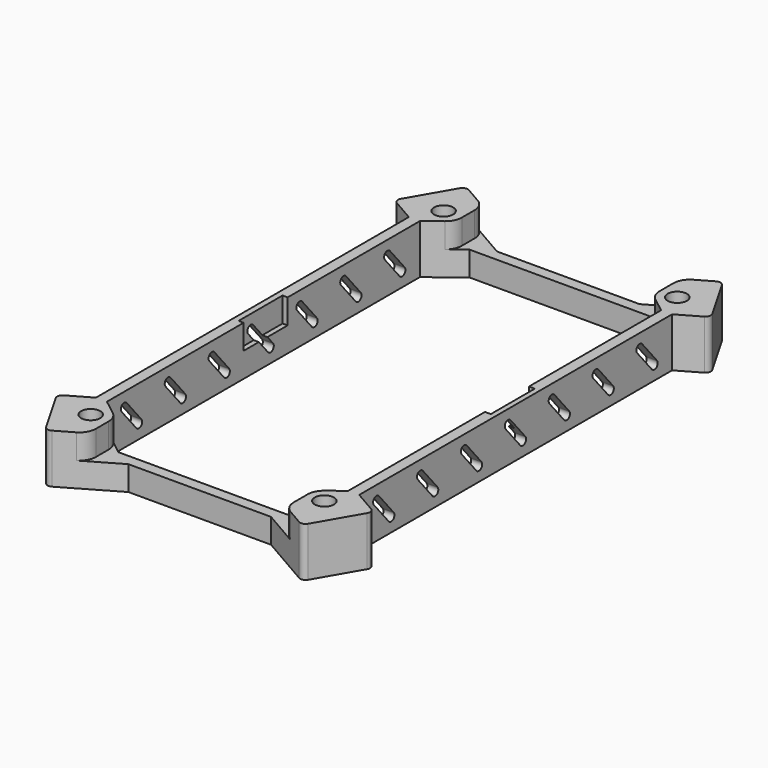
from build123d import *

# Parameters (mm, degrees)
SKETCH005_W   = 10.037777
SKETCH005_H   = 4.545547
PAD003_DEPTH  = 23
SKETCH004_W   = 36.161861
SKETCH004_H   = 4.748486
PAD002_DEPTH  = 100
PAD001_DEPTH  = 50
ARRAY_Y_COUNT = 7
ARRAY_Y_PITCH = 10
SKETCH_R      = 1.75
PAD_DEPTH     = 9
FILLET_R      = 1
FILLET002_R   = 3


with BuildPart() as pad003:
    # Sketch005 → Pad003 (new body, symmetric)
    with BuildSketch(Plane.YZ.offset(1)):
        with Locations((-0.053055, 6.772661)):
            Rectangle(SKETCH005_W, SKETCH005_H)
    extrude(amount=PAD003_DEPTH, both=True)


with BuildPart() as pad002:
    # Sketch004 → Pad002 (new body)
    with BuildSketch(Plane(origin=(1, -50, 0), x_dir=(1, 0, 0), z_dir=(0, -1, 0))):
        with Locations((0.005565, 6.850441)):
            Rectangle(SKETCH004_W, SKETCH004_H)
    extrude(amount=-PAD002_DEPTH)


with BuildPart() as array:
    # Sketch003 → Pad001 (new body)
    with BuildSketch(Plane(origin=(-23.0697, 0, 0), x_dir=(0, -1, 0), z_dir=(-1, 0, 0))):
        with BuildLine():
            Line((-1.127729, 2.982091), (2.228669, 6.982091))
            ThreePointArc((3.377736, 6.017909), (3.285293, 7.074533), (2.228669, 6.982091))
            Line((0.021337, 2.017909), (3.377736, 6.017909))
            ThreePointArc((-1.127729, 2.982091), (-1.035287, 1.925467), (0.021337, 2.017909))
        make_face()
    extrude(amount=-PAD001_DEPTH)

    # Array Y: Array ×7


with BuildPart() as array_1:
    add(array.part)
    with Locations(*[(0, i * ARRAY_Y_PITCH, 0) for i in range(1, ARRAY_Y_COUNT)]):
        add(array.part)


with BuildPart() as array_2:
    # Array placement: moved
    add(array_1.part.moved(Location((0, -29.5, 0))))


with BuildPart() as cut002:
    # Sketch → Pad (new body)
    with BuildSketch(Plane.XY):
        Polygon((-12.0697, 41.4218), (13.9303, 41.4218), (24.322605, 47.4218), (29.822605, 37.895521), (24.9303, 35.070947), (24.9303, -36.227347), (29.822605, -39.051921), (24.322605, -48.5782), (13.9303, -42.5782), (-12.0697, -42.5782), (-22.462005, -48.5782), (-27.962005, -39.051921), (-23.0697, -36.227347), (-23.0697, 35.070947), (-27.962005, 37.895521), (-22.462005, 47.4218), align=None)
        with Locations((-20.37566, -40.791855)):
            Circle(SKETCH_R, mode=Mode.SUBTRACT)
        with Locations((22.23626, -40.791855)):
            Circle(SKETCH_R, mode=Mode.SUBTRACT)
        with Locations((22.23626, 39.635455)):
            Circle(SKETCH_R, mode=Mode.SUBTRACT)
        with Locations((-20.37566, 39.635455)):
            Circle(SKETCH_R, mode=Mode.SUBTRACT)
        Polygon((22.9303, 35.070947), (22.9303, -36.227347), (17.35405, -40.5782), (-15.49345, -40.5782), (-21.0697, -36.227347), (-21.0697, 35.070947), (-15.49345, 39.4218), (17.35405, 39.4218), align=None, mode=Mode.SUBTRACT)
    extrude(amount=PAD_DEPTH)

    # Fillet
    fillet_edges = [cut002.edges().sort_by_distance(p)[0] for p in [
        (-22.462005, 47.4218, 4.5),
        (24.322605, 47.4218, 4.5),
        (29.822605, 37.895521, 4.5),
        (29.822605, -39.051921, 4.5),
        (24.322605, -48.5782, 4.5),
        (-22.462005, -48.5782, 4.5),
        (-27.962005, -39.051921, 4.5),
        (-27.962005, 37.895521, 4.5),
    ]]
    fillet(fillet_edges, radius=FILLET_R)

    # Cut: cut Array
    add(array_2.part, mode=Mode.SUBTRACT)

    # Cut001: cut Pad002
    add(pad002.part, mode=Mode.SUBTRACT)

    # Fillet002
    fillet002_edges = [cut002.edges().sort_by_distance(p)[0] for p in [
        (-17.075366, -39.343915, 6.738099),
        (-17.075366, -45.468223, 6.738099),
        (19.086495, -45.555131, 6.738099),
        (19.086495, -39.226465, 6.738099),
        (-17.075366, 44.311823, 6.738099),
        (-17.075366, 38.187515, 6.738099),
        (19.086495, 44.398731, 6.738099),
        (19.086495, 38.070065, 6.738099),
    ]]
    fillet(fillet002_edges, radius=FILLET002_R)

    # Cut002: cut Pad003
    add(pad003.part, mode=Mode.SUBTRACT)


solid = cut002.part
